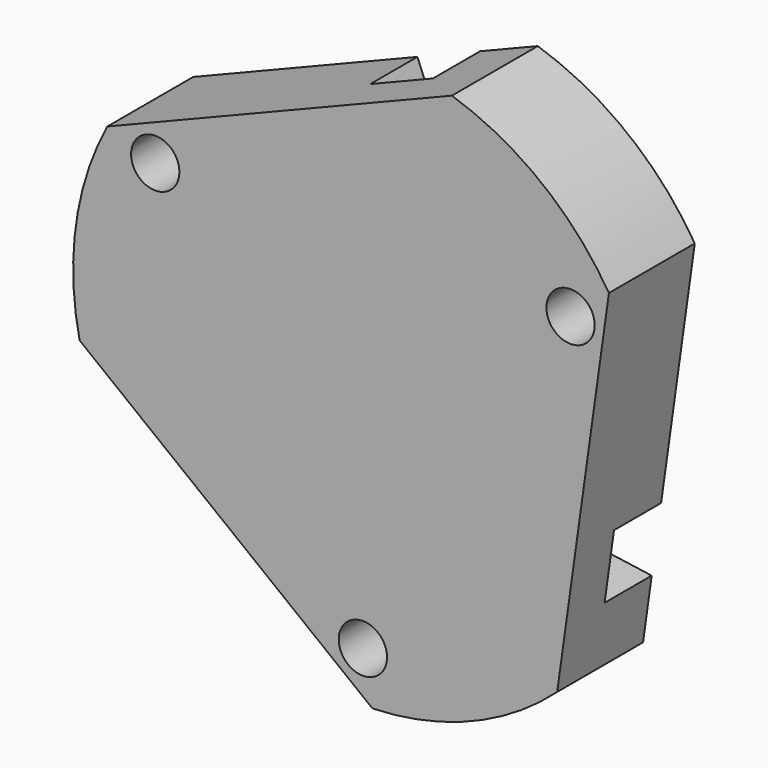
from build123d import *

# Parameters (mm, degrees)
F0_R     = 5
F1_DEPTH = 22.225
F3_DEPTH = 12.2


with BuildPart() as f1:
    # F0 (on Front) → F1 (new body)
    with BuildSketch(Plane.XZ):
        with BuildLine():
            Line((18.431756, 57.098777), (-52.922839, 28.269649))
            ThreePointArc((-52.922839, 28.269649), (-59.416084, 8.350386), (-58.66487, -12.58702))
            Line((-58.66487, -12.58702), (1.979185, -59.967348))
            ThreePointArc((1.979185, -59.967348), (22.476396, -55.631031), (40.233114, -44.511758))
            Line((40.233114, -44.511758), (50.943654, 31.697699))
            ThreePointArc((50.943654, 31.697699), (36.939689, 47.280645), (18.431756, 57.098777))
        make_face()
        with Locations((0, -49.652123)):
            Circle(F0_R, mode=Mode.SUBTRACT)
        with Locations((-43, 24.826062)):
            Circle(F0_R, mode=Mode.SUBTRACT)
        with Locations((43, 24.826062)):
            Circle(F0_R, mode=Mode.SUBTRACT)
    extrude(amount=-F1_DEPTH)

    # F2 (on face) → F3 (cut)
    with BuildSketch(Plane(origin=(0, 22.225, 0), x_dir=(-1, 0, 0), z_dir=(0, 1, 0))):
        with BuildLine():
            Line((-42.025789, -31.757938), (11.448687, -24.242591))
            ThreePointArc((11.448687, -24.242591), (17.406352, -16.336502), (9.500264, -10.378838))
            Line((9.500264, -10.378838), (-43.974212, -17.894185))
            Line((-43.974212, -17.894185), (-42.025789, -31.757938))
        make_face()
        with BuildLine():
            Line((4.238205, 13.416888), (37.483925, -29.135692))
            Line((37.483925, -29.135692), (48.516076, -20.516432))
            Line((48.516076, -20.516432), (15.270356, 22.036149))
            ThreePointArc((15.270356, 22.036149), (5.44465, 23.242594), (4.238205, 13.416888))
        make_face()
        with BuildLine():
            Line((-13.738469, -3.038051), (6.490287, 47.029877))
            Line((6.490287, 47.029877), (-6.490287, 52.27437))
            Line((-6.490287, 52.27437), (-26.719043, 2.206442))
            ThreePointArc((-26.719043, 2.206442), (-22.851002, -6.906092), (-13.738469, -3.038051))
        make_face()
    extrude(amount=-F3_DEPTH, mode=Mode.SUBTRACT)


solid = f1.part
